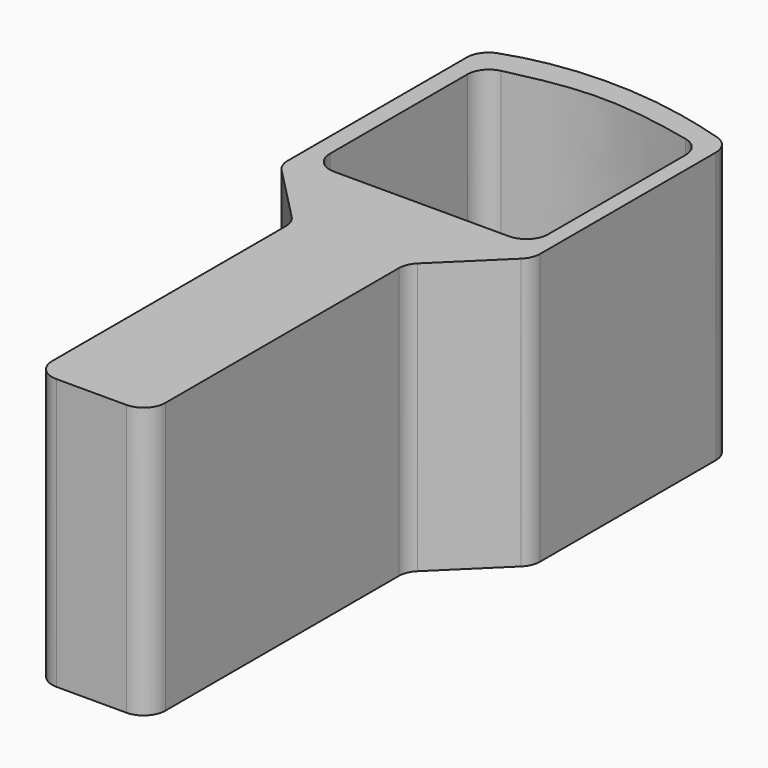
from build123d import *

# Parameters (mm, degrees)
F0_W     = 10.4462385095
F0_H     = 11.2311821431
F1_DEPTH = 25


with BuildPart() as f1:
    # F0 (on Top) → F1 (new body)
    with BuildSketch(Plane.XY):
        with BuildLine():
            Line((0.8664335105, 14.6698692461), (5.9987161299, 9.4209444202))
            ThreePointArc((5.9987161299, 9.4209444202), (6.4207323669, 8.7776837386), (6.5687028691, 8.0227090773))
            Line((6.5687028691, 8.0227090773), (6.5687028691, 6.8866130896))
            Line((6.5687028691, 6.8866130896), (17.0149413786, 6.8866130896))
            Line((17.0149413786, 6.8866130896), (17.0149413786, 7.9963824148))
            ThreePointArc((17.0149413786, 7.9963824148), (17.1715110591, 8.772117329), (17.6167060357, 9.4263956755))
            Line((17.6167060357, 9.4263956755), (22.9737737204, 14.6644179908))
            ThreePointArc((22.9737737204, 14.6644179908), (23.4189686971, 15.3186963373), (23.5755383776, 16.0944312515))
            Line((23.5755383776, 16.0944312515), (23.5755383776, 36.3603299985))
            ThreePointArc((23.5755383776, 36.3603299985), (23.1812982443, 37.5526115301), (22.154003127, 38.2748478317))
            add(Edge.make_bspline(
                [(1.6132064196, 38.6275561042), (4.8689775081, 39.8109908797), (12.1465959095, 40.630247411), (18.7845553069, 39.2929144986), (22.154003127, 38.2748478317)],
                knots=[0.0604654522, 0.0604654522, 0.0604654522, 0.0604654522, 0.501025476, 0.9386416549, 0.9386416549, 0.9386416549, 0.9386416549], degree=3))
            ThreePointArc((1.6132064196, 38.6275561042), (0.6583868359, 37.8953813836), (0.2964467712, 36.7478799028))
            Line((0.2964467712, 36.7478799028), (0.2964467712, 16.068104589))
            ThreePointArc((0.2964467712, 16.068104589), (0.4444172734, 15.3131299277), (0.8664335105, 14.6698692461))
        make_face()
        with BuildLine():
            Line((20.1205869764, 16.8380016387), (3.9844933413, 16.8380016387))
            ThreePointArc((3.9844933413, 16.8380016387), (2.5702797789, 17.4237880763), (1.9844933413, 18.8380016387))
            Line((1.9844933413, 18.8380016387), (1.9844933413, 34.6921788082))
            ThreePointArc((1.9844933413, 34.6921788082), (2.4178549484, 35.9354181842), (3.5301374873, 36.6398853462))
            add(Edge.make_bspline(
                [(3.5301374873, 36.6398853462), (6.2800060622, 37.2813674485), (11.5580514654, 38.3806394359), (17.639418239, 37.3177340844), (20.5676030509, 36.6462747235)],
                knots=[0.0764311132, 0.0764311132, 0.0764311132, 0.0764311132, 0.4896973389, 0.9225082296, 0.9225082296, 0.9225082296, 0.9225082296], degree=3))
            ThreePointArc((20.5676030509, 36.6462747235), (21.6848810902, 35.9430583076), (22.1205869764, 34.6968705507))
            Line((22.1205869764, 34.6968705507), (22.1205869764, 18.8380016387))
            ThreePointArc((22.1205869764, 18.8380016387), (21.5348005388, 17.4237880763), (20.1205869764, 16.8380016387))
        make_face(mode=Mode.SUBTRACT)
        with Locations((11.7918221238, 1.271022018)):
            Rectangle(F0_W, F0_H)
        with BuildLine():
            Line((17.0149413786, -4.3445690535), (6.5687028691, -4.3445690535))
            Line((6.5687028691, -4.3445690535), (6.5687028691, -18.921073854))
            ThreePointArc((6.5687028691, -18.921073854), (7.1544893067, -20.3352874163), (8.5687028691, -20.921073854))
            Line((8.5687028691, -20.921073854), (15.0149413786, -20.921073854))
            ThreePointArc((15.0149413786, -20.921073854), (16.4291549409, -20.3352874163), (17.0149413786, -18.921073854))
            Line((17.0149413786, -18.921073854), (17.0149413786, -4.3445690535))
        make_face()
    extrude(amount=F1_DEPTH)


solid = f1.part
